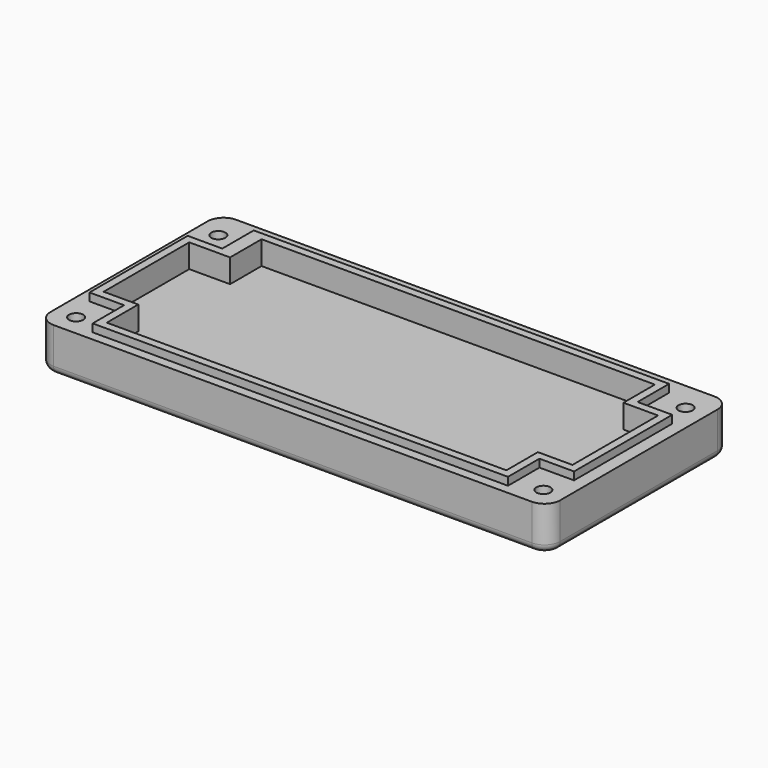
from build123d import *

# Parameters (mm, degrees)
F0_R     = 1.143
F1_DEPTH = 7.112
F2_DEPTH = 8.382
F3_DEPTH = 4.572
F4_R     = 2.032
F5_DEPTH = 5.8674
F6_R     = 1.27


with BuildPart() as f1:
    # F0 (on Top) → F1 (new body)
    with BuildSketch(Plane.XY):
        with BuildLine():
            ThreePointArc((-2.54, 0), (-0.743949, 0.743949), (0, 2.54))
            Line((0, 2.54), (0, 34.29))
            ThreePointArc((0, 34.29), (-0.743949, 36.086051), (-2.54, 36.83))
            Line((-2.54, 36.83), (-79.756, 36.83))
            ThreePointArc((-79.756, 36.83), (-81.552051, 36.086051), (-82.296, 34.29))
            Line((-82.296, 34.29), (-82.296, 2.54))
            ThreePointArc((-82.296, 2.54), (-81.552051, 0.743949), (-79.756, 0))
            Line((-79.756, 0), (-2.54, 0))
        make_face()
        with Locations((-78.867, 3.429)):
            Circle(F0_R, mode=Mode.SUBTRACT)
        with Locations((-3.429, 3.429)):
            Circle(F0_R, mode=Mode.SUBTRACT)
        Polygon((-7.62, 7.874), (-7.62, 1.524), (-74.676, 1.524), (-74.676, 7.874), (-80.264, 7.874), (-80.264, 27.686), (-74.676, 27.686), (-74.676, 34.036), (-7.62, 34.036), (-7.62, 27.686), (-2.032, 27.686), (-2.032, 7.874), align=None, mode=Mode.SUBTRACT)
        with Locations((-78.867, 32.131)):
            Circle(F0_R, mode=Mode.SUBTRACT)
        with Locations((-3.429, 32.131)):
            Circle(F0_R, mode=Mode.SUBTRACT)
    extrude(amount=F1_DEPTH)

    # F0 (on Top) → F2 (join)
    with BuildSketch(Plane.XY):
        Polygon((-74.676, 1.524), (-7.62, 1.524), (-7.62, 7.874), (-2.032, 7.874), (-2.032, 27.686), (-7.62, 27.686), (-7.62, 34.036), (-74.676, 34.036), (-74.676, 27.686), (-80.264, 27.686), (-80.264, 7.874), (-74.676, 7.874), align=None)
        Polygon((-8.89, 9.144), (-8.89, 2.794), (-73.406, 2.794), (-73.406, 9.144), (-78.994, 9.144), (-78.994, 26.416), (-72.402207, 26.416), (-72.402207, 32.766), (-8.89, 32.766), (-8.89, 26.416), (-3.302, 26.416), (-3.302, 9.144), align=None, mode=Mode.SUBTRACT)
    extrude(amount=F2_DEPTH)

    # F0 (on Top) → F3 (join)
    with BuildSketch(Plane.XY):
        Polygon((-73.406, 2.794), (-8.89, 2.794), (-8.89, 9.144), (-3.302, 9.144), (-3.302, 26.416), (-8.89, 26.416), (-8.89, 32.766), (-72.402207, 32.766), (-72.402207, 26.416), (-78.994, 26.416), (-78.994, 9.144), (-73.406, 9.144), align=None)
    extrude(amount=F3_DEPTH)

    # F4 (on face) → F5 (cut)
    with BuildSketch(Plane.XY):
        with Locations((-3.429, 32.258)):
            Circle(F4_R)
        with Locations((-78.871086, 32.258)):
            Circle(F4_R)
        with Locations((-3.429, 3.429)):
            Circle(F4_R)
        with Locations((-78.867, 3.429)):
            Circle(F4_R)
    extrude(amount=F5_DEPTH, mode=Mode.SUBTRACT)

    # F6
    f6_edges = [f1.edges().sort_by_distance(p)[0] for p in [
        (-41.148, 36.83, 0),
    ]]
    fillet(f6_edges, radius=F6_R)


solid = f1.part
